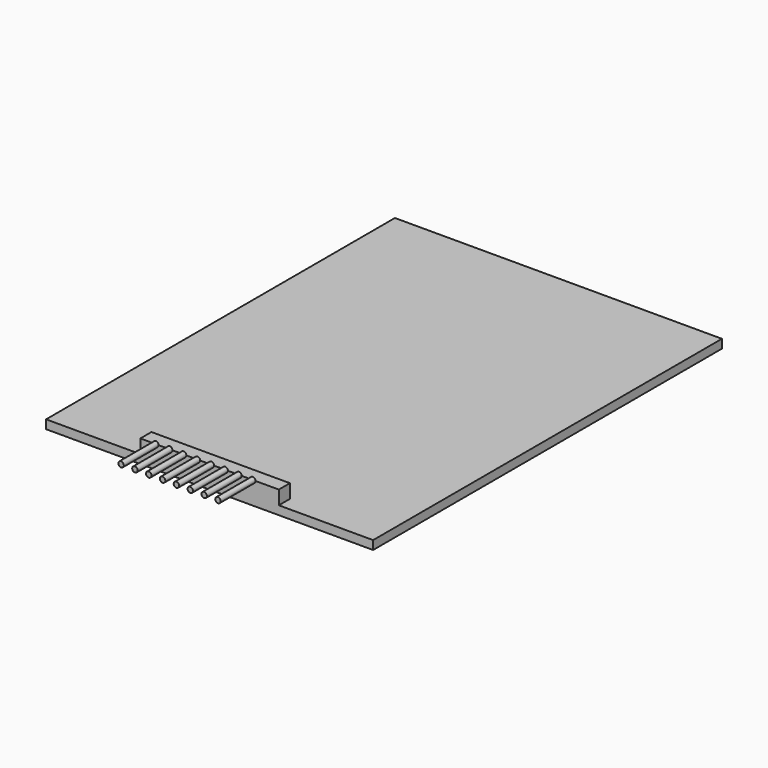
from build123d import *

# Parameters (mm, degrees)
F0_W     = 60
F0_H     = 80
F1_DEPTH = 1.6
F2_W     = 25.4
F2_H     = 2.54
F3_DEPTH = 2.54
F4_R     = 0.5
F5_DEPTH = 8


with BuildPart() as f1:
    # F0 (on Top) → F1 (new body)
    with BuildSketch(Plane.XY):
        with Locations((30, 40)):
            Rectangle(F0_W, F0_H)
    extrude(amount=F1_DEPTH)

    # F2 (on face) → F3 (join)
    with BuildSketch(Plane.XY.offset(1.6)):
        with Locations((30, 1.27)):
            Rectangle(F2_W, F2_H)
    extrude(amount=F3_DEPTH)

    # F4 (on face) → F5 (join)
    with BuildSketch(Plane.XZ):
        with Locations((20.157567, 4.14)):
            Circle(F4_R)
        with Locations((22.697567, 4.14)):
            Circle(F4_R)
        with Locations((25.237567, 4.14)):
            Circle(F4_R)
        with Locations((27.777567, 4.14)):
            Circle(F4_R)
        with Locations((30.317567, 4.14)):
            Circle(F4_R)
        with Locations((32.857567, 4.14)):
            Circle(F4_R)
        with Locations((35.397567, 4.14)):
            Circle(F4_R)
        with Locations((37.937567, 4.14)):
            Circle(F4_R)
    extrude(amount=F5_DEPTH)


solid = f1.part
